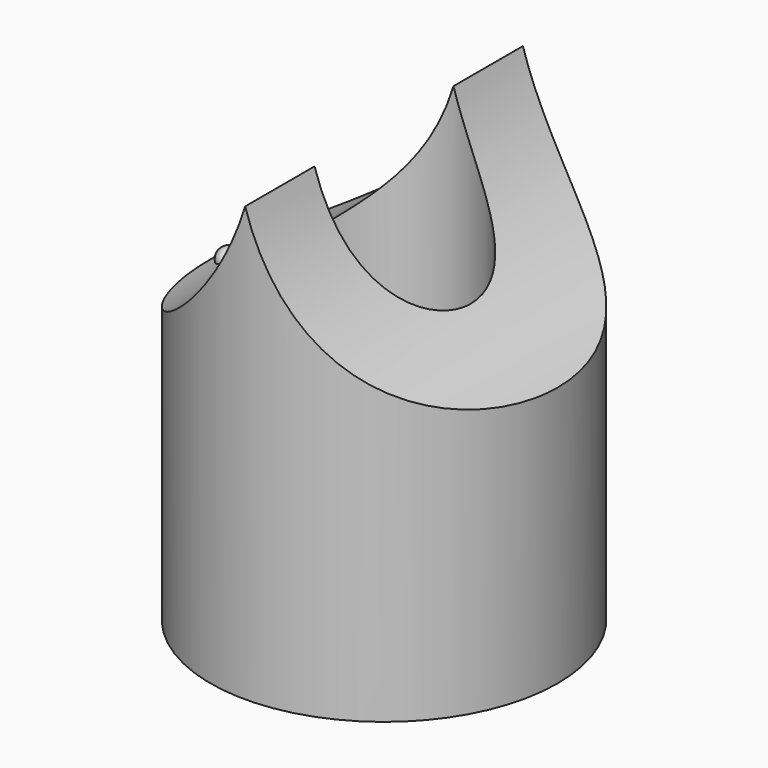
from build123d import *

# Parameters (mm, degrees)
F0_R     = 2
F0_R_2   = 1
F1_DEPTH = 5
F3_DEPTH = 12.5


with BuildPart() as f1:
    # F0 (on Top) → F1 (new body)
    with BuildSketch(Plane.XY):
        Circle(F0_R)
        Circle(F0_R_2, mode=Mode.SUBTRACT)
    extrude(amount=F1_DEPTH)

    # F2 (on Front) → F3 (cut, symmetric)
    with BuildSketch(Plane.XZ):
        with BuildLine():
            Line((-2, 5), (-2, 3))
            ThreePointArc((-2, 3), (-0.749508, 3.749508), (0, 5))
            Line((0, 5), (-2, 5))
        make_face()
        with BuildLine():
            Line((2, 5), (0, 5))
            ThreePointArc((0, 5), (0.749508, 3.749508), (2, 3))
            Line((2, 3), (2, 5))
        make_face()
    extrude(amount=F3_DEPTH, both=True, mode=Mode.SUBTRACT)

    # F4 (on Front) → F5 (revolve)
    with BuildSketch(Plane.XZ):
        with BuildLine():
            ThreePointArc((-1.90921, 3.029123), (-1.863462, 2.969324), (-1.791666, 2.946649))
            Line((-1.791666, 2.946649), (-1.791666, 3.196649))
            ThreePointArc((-1.791666, 3.196649), (-1.893991, 3.143445), (-1.90921, 3.029123))
        make_face()
    revolve(axis=Axis((-1.791666, 0, 3.071649), (0, 0, -1)))


solid = f1.part
